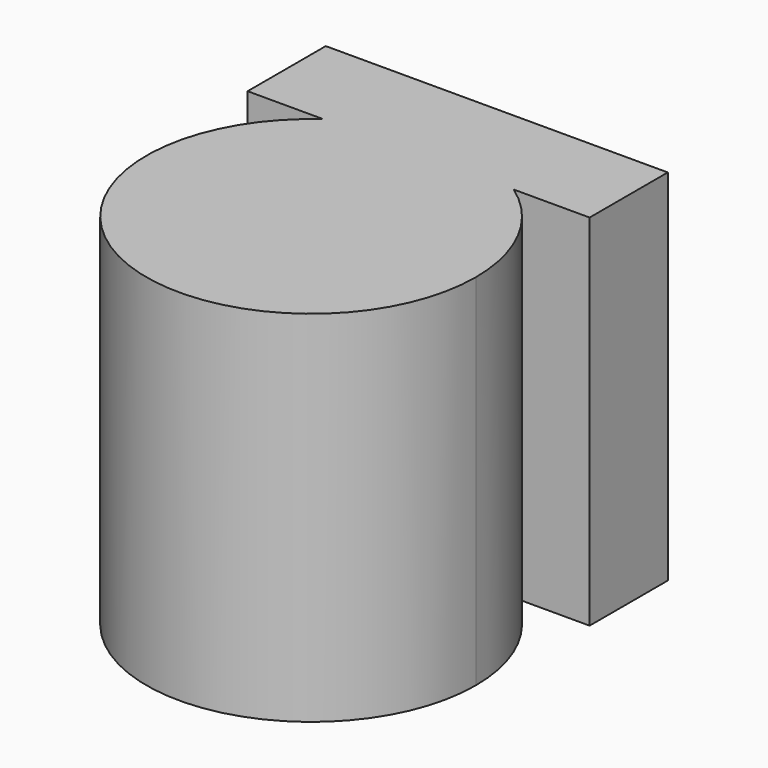
from build123d import *

# Parameters (mm, degrees)
F1_DEPTH = 25.4


with BuildPart() as f1:
    # F0 (on Top) → F1 (new body)
    with BuildSketch(Plane.XY):
        with BuildLine():
            ThreePointArc((-42.8508276872, 31.8025350571), (-41.4654203847, 11.9639712949), (-24.4785961914, 22.3049465567))
            ThreePointArc((-24.4785961914, 22.3049465567), (-25.77864226, 27.6507494196), (-29.3884073564, 31.8025350571))
            Line((-29.3884073564, 31.8025350571), (-42.8508276872, 31.8025350571))
        make_face()
        with BuildLine():
            Line((-42.8508276872, 31.8025350571), (-29.3884073564, 31.8025350571))
            ThreePointArc((-29.3884073564, 31.8025350571), (-36.1196175218, 33.945967887), (-42.8508276872, 31.8025350571))
        make_face()
        with BuildLine():
            ThreePointArc((-42.8508276872, 31.8025350571), (-36.1196175218, 33.945967887), (-29.3884073564, 31.8025350571))
            Line((-29.3884073564, 31.8025350571), (-24.0317769349, 31.8025350571))
            Line((-24.0317769349, 31.8025350571), (-24.0317769349, 38.7098751962))
            Line((-24.0317769349, 38.7098751962), (-48.207461834, 38.7098751962))
            Line((-48.207461834, 38.7098751962), (-48.207461834, 31.8025350571))
            Line((-48.207461834, 31.8025350571), (-42.8508276872, 31.8025350571))
        make_face()
    extrude(amount=F1_DEPTH)


solid = f1.part
